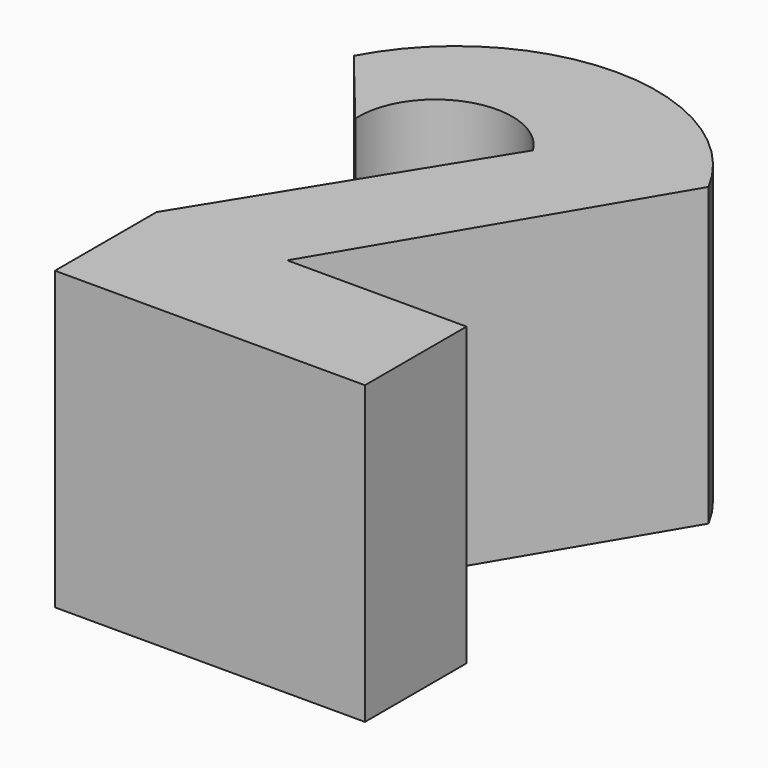
from build123d import *

# Parameters (mm, degrees)
F1_DEPTH = 25.4


with BuildPart() as f1:
    # F0 (on Top) → F1 (new body)
    with BuildSketch(Plane.XY):
        with BuildLine():
            Line((28.803598, 0), (44.165518, 25.923241))
            ThreePointArc((44.165518, 25.923241), (28.96362, 35.064283), (13.761722, 25.923241))
            Line((13.761722, 25.923241), (19.52244, 18.88236))
            ThreePointArc((19.52244, 18.88236), (24.108402, 25.536125), (31.683959, 22.72284))
            Line((31.683959, 22.72284), (17.602202, 0))
            Line((17.602202, 0), (17.602202, -10.881361))
            Line((17.602202, -10.881361), (44.165518, -10.881361))
            Line((44.165518, -10.881361), (44.165518, 0))
            Line((44.165518, 0), (28.803598, 0))
        make_face()
    extrude(amount=F1_DEPTH)


solid = f1.part
